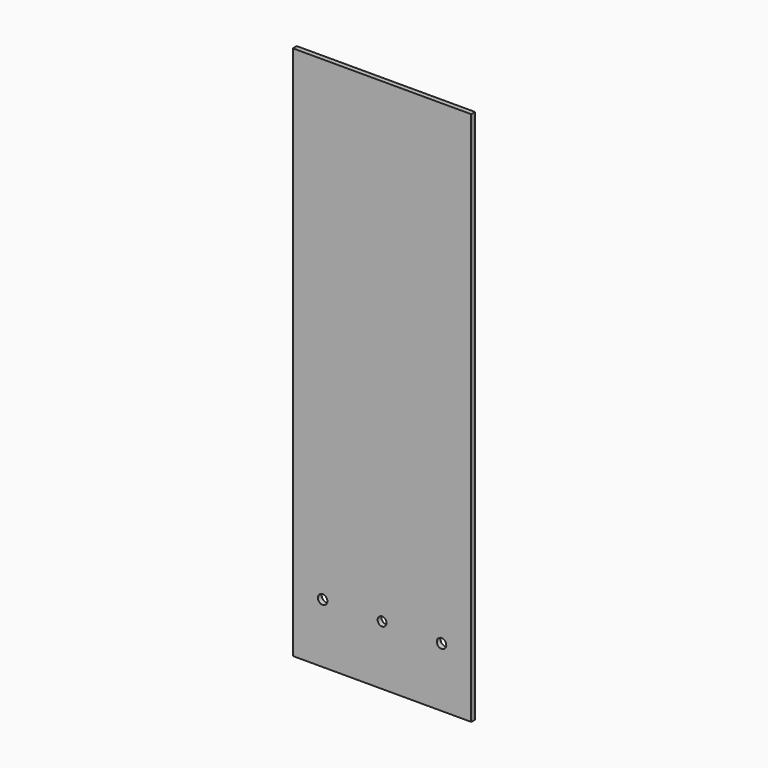
from build123d import *

# Parameters (mm, degrees)
F0_W     = 60
F0_H     = 180
F0_R     = 1.6
F0_R_2   = 1.5
F1_DEPTH = 0.815


with BuildPart() as f1:
    # F0 (on Front) → F1 (new body, symmetric)
    with BuildSketch(Plane.XZ):
        with Locations((0, 93)):
            Rectangle(F0_W, F0_H)
        with Locations((-20, 23)):
            Circle(F0_R, mode=Mode.SUBTRACT)
        with Locations((0, 23)):
            Circle(F0_R_2, mode=Mode.SUBTRACT)
        with Locations((20, 23)):
            Circle(F0_R, mode=Mode.SUBTRACT)
    extrude(amount=F1_DEPTH, both=True)


solid = f1.part
